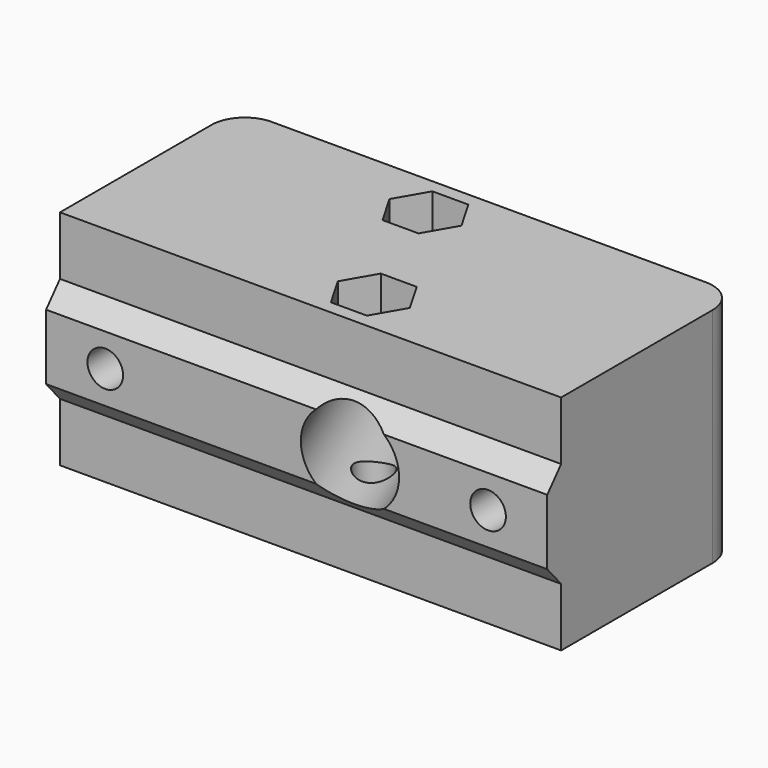
from build123d import *

# Parameters (mm, degrees)
SKETCH_R        = 1.6
PAD_DEPTH       = 20
PAD001_DEPTH    = 45
SKETCH002_R     = 4.075
POCKET_DEPTH    = 31.803267
POCKET001_DEPTH = 20.001
SKETCH004_R     = 1.6
POCKET002_DEPTH = 21.561
FILLET_R        = 3
POCKET003_DEPTH = 3.2
POCKET004_DEPTH = 3.2


with BuildPart() as part:
    # Sketch → Pad (new body)
    with BuildSketch(Plane.XY):
        Polygon((22.5, 10), (22.5, -10), (-22.5, -10), (-22.5, 10), (-8.552884, 10), (-1.023266, 13.11887), (0.268613, 10), align=None)
        with Locations((-2.487442, 6.005217)):
            Circle(SKETCH_R, mode=Mode.SUBTRACT)
        with Locations((2.487442, -6.005217)):
            Circle(SKETCH_R, mode=Mode.SUBTRACT)
    extrude(amount=PAD_DEPTH)

    # Sketch001 (on Face3 of Pad) → Pad001 (join)
    with BuildSketch(Plane(origin=(-22.5, 0, 0), x_dir=(0, -1, 0), z_dir=(-1, 0, 0))):
        Polygon((10, 10), (10, 14.74), (11.56, 12.94), (11.56, 7.06), (10, 5.26), align=None)
    extrude(amount=-PAD001_DEPTH)

    # Sketch002 (on Face14 of Pad001) → Pocket (cut, through all)
    with BuildSketch(Plane(origin=(-4.788075, 11.559435, 0), x_dir=(-0.92388, -0.382683, 0), z_dir=(-0.382683, 0.92388, 0))):
        with Locations((0, 10)):
            Circle(SKETCH002_R)
    extrude(amount=-POCKET_DEPTH, mode=Mode.SUBTRACT)

    # Sketch003 (on Face6 of Pocket) → Pocket001 (cut, through all)
    with BuildSketch(Plane(origin=(0, 0, 0), x_dir=(1, 0, 0), z_dir=(0, 0, -1))):
        Polygon((-8.552884, -10), (-1.023266, -13.11887), (0.268613, -10), align=None)
    extrude(amount=-POCKET001_DEPTH, mode=Mode.SUBTRACT)

    # Sketch004 (on Face2 of Pocket001) → Pocket002 (cut, through all)
    with BuildSketch(Plane(origin=(0, 10, 0), x_dir=(-1, 0, 0), z_dir=(0, 1, 0))):
        with Locations((-17.186, 10)):
            Circle(SKETCH004_R)
        with Locations((17.186, 10)):
            Circle(SKETCH004_R)
    extrude(amount=-POCKET002_DEPTH, mode=Mode.SUBTRACT)

    # Fillet
    fillet_edges = [part.edges().sort_by_distance(p)[0] for p in [
        (-22.5, 10, 10),
        (22.5, 10, 10),
    ]]
    fillet(fillet_edges, radius=FILLET_R)

    # Sketch005 (on Face2 of Fillet) → Pocket003 (cut)
    with BuildSketch(Plane(origin=(0, 0, 0), x_dir=(1, 0, 0), z_dir=(0, 0, -1))):
        Polygon((5.720604, 6.005217), (4.104023, 8.805217), (0.870862, 8.805217), (-0.745719, 6.005217), (0.870862, 3.205217), (4.104023, 3.205217), align=None)
        Polygon((-5.720604, -6.005217), (-4.104023, -8.805217), (-0.870862, -8.805217), (0.745719, -6.005217), (-0.870862, -3.205217), (-4.104023, -3.205217), align=None)
    extrude(amount=-POCKET003_DEPTH, mode=Mode.SUBTRACT)

    # Sketch006 (on Face5 of Pocket003) → Pocket004 (cut)
    with BuildSketch(Plane.XY.offset(20)):
        Polygon((0.745719, 6.005217), (-0.870862, 8.805217), (-4.104023, 8.805217), (-5.720604, 6.005217), (-4.104023, 3.205217), (-0.870862, 3.205217), align=None)
        Polygon((5.720604, -6.005217), (4.104023, -3.205217), (0.870862, -3.205217), (-0.745719, -6.005217), (0.870862, -8.805217), (4.104023, -8.805217), align=None)
    extrude(amount=-POCKET004_DEPTH, mode=Mode.SUBTRACT)


solid = part.part
